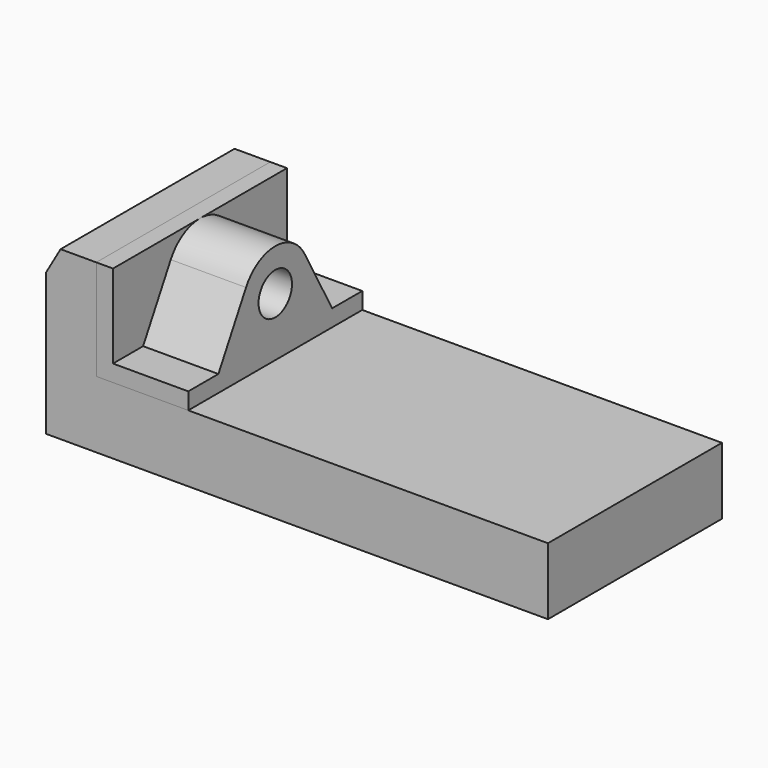
from build123d import *

# Parameters (mm, degrees)
F0_W     = 762
F0_H     = 1524
F1_DEPTH = 3302
F2_SIZE2 = 219.9704525612
F2_SIZE  = 381
F3_W     = 1143
F3_H     = 254
F4_DEPTH = 3302
F5_R     = 317.5
F6_DEPTH = 1143


with BuildPart() as f1:
    # F0 (on Front) → F1 (new body)
    with BuildSketch(Plane.XZ):
        Polygon((-7620, 0), (0, 0), (0, 1016), (-6858, 1016), (-7620, 1016), align=None)
        with Locations((-7239, 1778)):
            Rectangle(F0_W, F0_H)
    extrude(amount=F1_DEPTH)

    # F2
    f2_edges = [f1.edges().sort_by_distance(p)[0] for p in [
        (-7620, -1651, 2540),
    ]]
    f2_side = f1.faces().sort_by_distance((-7620, -1651, 1270))[0]
    chamfer(f2_edges, length=F2_SIZE, length2=F2_SIZE2, reference=f2_side)


with BuildPart() as f4:
    # F3 (on face) → F4 (new body)
    with BuildSketch(Plane.XZ.offset(3302)):
        Polygon((-6604, 2540), (-6858, 2540), (-6858, 1016), (-6604, 1016), (-6604, 1270), align=None)
        with Locations((-6032.5, 1143)):
            Rectangle(F3_W, F3_H)
    extrude(amount=-F4_DEPTH)

    # F5 (on face) → F6 (join)
    with BuildSketch(Plane.YZ.offset(-6604)):
        with BuildLine():
            ThreePointArc((-1095.9871465296, 2213.5218508997), (-1036.3219696647, 2064.3609708277), (-1016, 1905))
            ThreePointArc((-1016, 1905), (-1201.9871939465, 1455.9871939466), (-1650.9999999999, 1270))
            Line((-1650.9999999999, 1270), (-571.5, 1270))
            Line((-571.5, 1270), (-1095.9871465296, 2213.5218508997))
        make_face()
        with BuildLine():
            Line((-2730.5, 1270), (-1650.9999999999, 1270))
            ThreePointArc((-1650.9999999999, 1270), (-2198.3282266252, 1583.0422196322), (-2206.0128534704, 2213.5218508997))
            Line((-2206.0128534704, 2213.5218508997), (-2730.5, 1270))
        make_face()
        with BuildLine():
            ThreePointArc((-1650.9999999999, 1270), (-1201.9871939465, 1455.9871939466), (-1016, 1905))
            ThreePointArc((-1016, 1905), (-1036.3219696647, 2064.3609708277), (-1095.9871465296, 2213.5218508997))
            ThreePointArc((-1095.9871465296, 2213.5218508997), (-1329.0422196322, 2452.3282266252), (-1651, 2540))
            ThreePointArc((-1651, 2540), (-1972.9577803678, 2452.3282266252), (-2206.0128534704, 2213.5218508997))
            ThreePointArc((-2206.0128534704, 2213.5218508997), (-2198.3282266252, 1583.0422196322), (-1650.9999999999, 1270))
        make_face()
        with Locations((-1651, 1905)):
            Circle(F5_R, mode=Mode.SUBTRACT)
    extrude(amount=F6_DEPTH)


solid = Compound([f1.part, f4.part])
